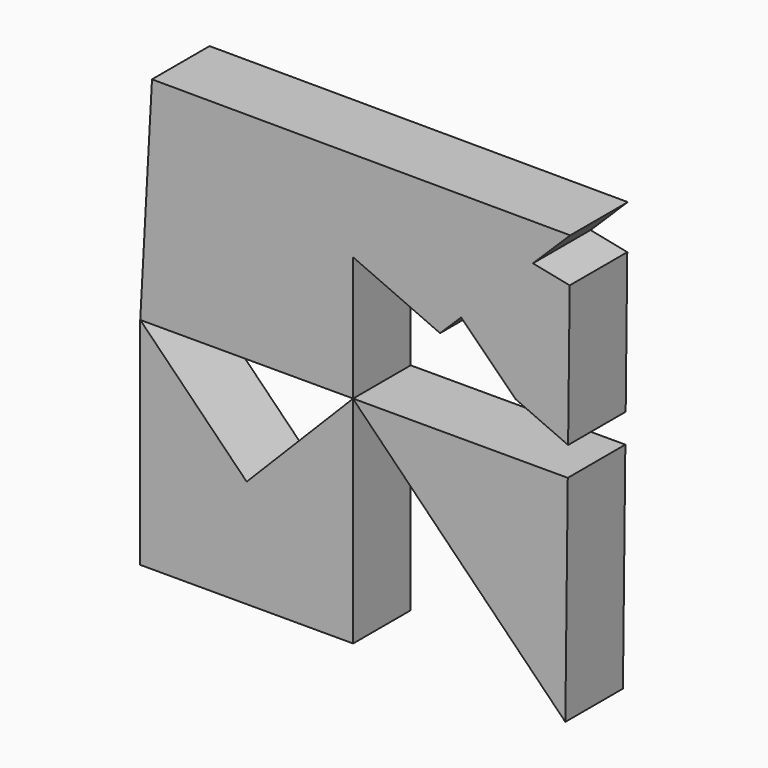
from build123d import *

# Parameters (mm, degrees)
F1_DEPTH = 25.4


with BuildPart() as f1:
    # F0 (on Front) → F1 (new body)
    with BuildSketch(Plane.XZ):
        Polygon((-71.0192831951, 75.4273998377), (-71.199706528, 72.117898654), (-0.1219660044, 0), (0, 0), (0, 43.9035848512), align=None)
        Polygon((-0.1219660044, 0), (-71.199706528, 72.117898654), (-75.131341815, 0), align=None)
        Polygon((0, 75.8654908862), (-70.9829569664, 76.0937310424), (-71.0192831951, 75.4273998377), (0, 43.9035848512), (0, 75.6192058325), align=None)
        Polygon((38.112613931, 37.6271010601), (0, 75.6192058325), (0, 43.9035848512), (30.677395733, 30.2865993813), align=None)
        Polygon((63.4661180812, 62.6576293942), (0, 75.6192058325), (38.112613931, 37.6271010601), align=None)
        Polygon((76.594941318, 75.6192058325), (0, 75.8654908862), (0, 75.6192058325), (63.4661180812, 62.6576293942), align=None)
        Polygon((75.8590663753, 10.2315022017), (76.4192999244, 60.0122232837), (63.4661180812, 62.6576293942), (38.112613931, 37.6271010601), (57.3559570858, 18.4446038788), align=None)
    extrude(amount=F1_DEPTH)


with BuildPart() as f1b:
    # F0 (on Front) → F1, piece 2 (new body)
    with BuildSketch(Plane.XZ):
        Polygon((0, -0.123750866), (-0.0610325414, -0.0618251688), (-37.5656709075, -38.053534925), (0, -76.10706985), align=None)
        Polygon((-37.5656709075, -38.053534925), (-75.131341815, 0), (-75.131341815, -76.10706985), align=None)
        Polygon((-37.5656709075, -38.053534925), (-75.131341815, -76.10706985), (0, -76.10706985), align=None)
    extrude(amount=F1_DEPTH)


with BuildPart() as f1c:
    # F0 (on Front) → F1, piece 3 (new body)
    with BuildSketch(Plane.XZ):
        Polygon((75.7439207794, 0), (0, 0), (0, -0.123750866), (74.8874098063, -76.10706985), align=None)
    extrude(amount=F1_DEPTH)


solid = Compound([f1.part, f1b.part, f1c.part])
